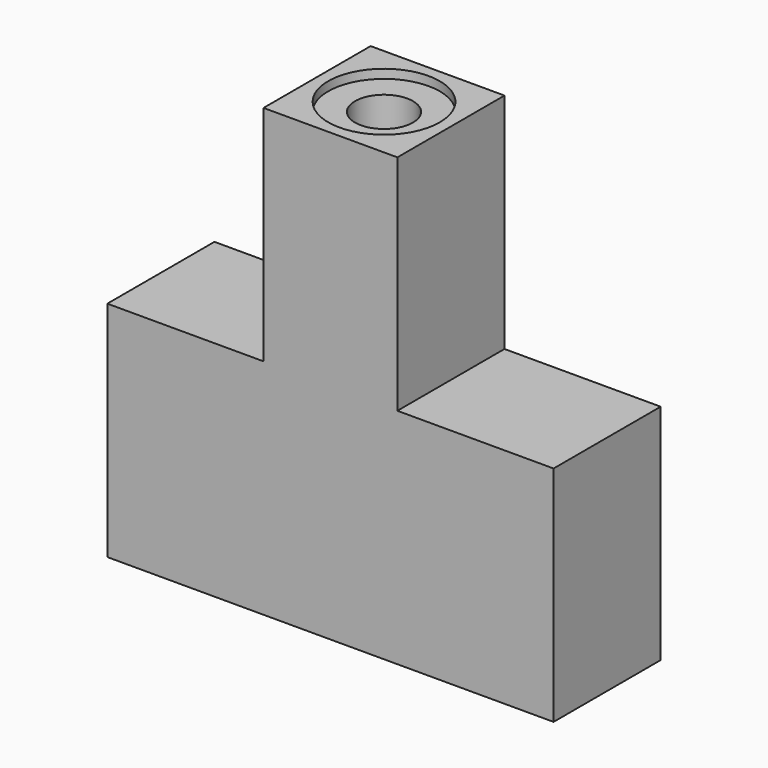
from build123d import *

# Parameters (mm, degrees)
F1_DEPTH = 3
F2_W     = 3
F2_H     = 3
F3_DEPTH = 5
F4_R     = 0.65
F5_DEPTH = 7
F6_R     = 1.25
F7_DEPTH = 0.2


with BuildPart() as f1:
    # F0 (on Front) → F1 (new body)
    with BuildSketch(Plane.XZ):
        Polygon((-5, -2.5), (5, -2.5), (5, 2.5), (1.5, 2.5), (-1.5, 2.5), (-5, 2.5), align=None)
    extrude(amount=F1_DEPTH)

    # F2 (on face) → F3 (join)
    with BuildSketch(Plane.XY.offset(2.5)):
        with Locations((0, -1.5)):
            Rectangle(F2_W, F2_H)
    extrude(amount=F3_DEPTH)

    # F4 (on face) → F5 (cut)
    with BuildSketch(Plane.XY.offset(7.5)):
        with Locations((0, -1.5)):
            Circle(F4_R)
    extrude(amount=-F5_DEPTH, mode=Mode.SUBTRACT)

    # F6 (on face) → F7 (cut)
    with BuildSketch(Plane.XY.offset(7.5)):
        with Locations((0, -1.5)):
            Circle(F6_R)
    extrude(amount=-F7_DEPTH, mode=Mode.SUBTRACT)


solid = f1.part
